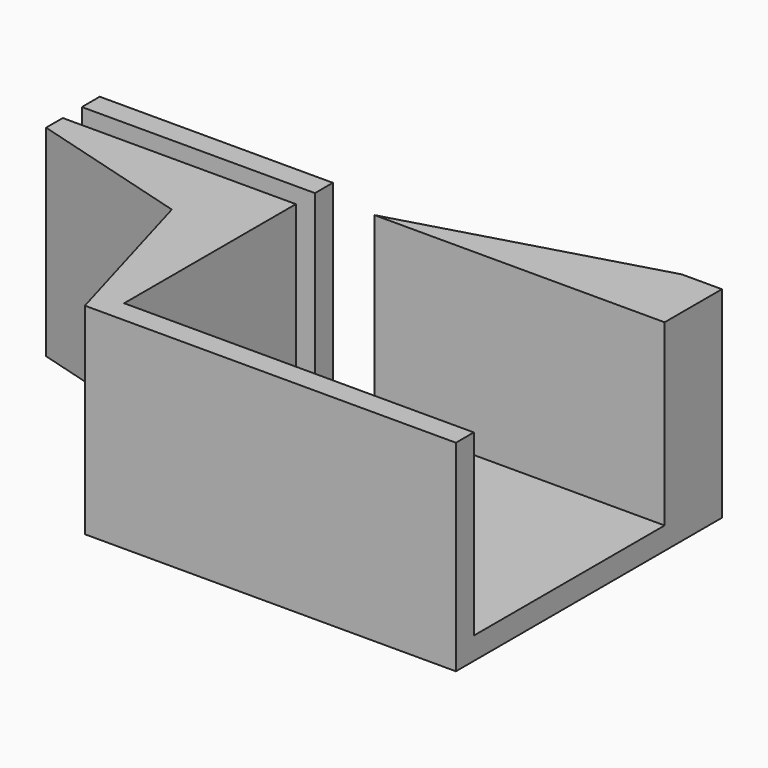
from build123d import *

# Parameters (mm, degrees)
F1_DEPTH = 1.5
F2_W     = 15.637528
F2_H     = 1.5
F3_DEPTH = 12


with BuildPart() as f1:
    # F0 (on Top) → F1 (new body)
    with BuildSketch(Plane.XY):
        Polygon((-5.091527, 12.161472), (-29.960176, 12.161472), (-29.960176, 7.661472), (-19.016238, 4.523348), (-15.758272, -6.838528), (9.13308, -6.838528), (9.13308, 15.466857), (6.43572, 15.466857), align=None)
    extrude(amount=F1_DEPTH)

    # F2 (on face) → F3 (join)
    with BuildSketch(Plane.XY.offset(1.5)):
        Polygon((-29.960176, 9.061472), (-29.960176, 7.661472), (-19.016238, 4.523348), (-15.758272, -6.838528), (9.13308, -6.838528), (9.13308, -5.338528), (-14.322648, -5.338528), (-14.322648, 9.061472), align=None)
        with Locations((-22.141412, 11.411472)):
            Rectangle(F2_W, F2_H)
        Polygon((-10.322648, 10.661472), (9.13308, 10.661472), (9.13308, 15.466857), (6.43572, 15.466857), (-5.091527, 12.161472), align=None)
    extrude(amount=F3_DEPTH)


solid = f1.part
